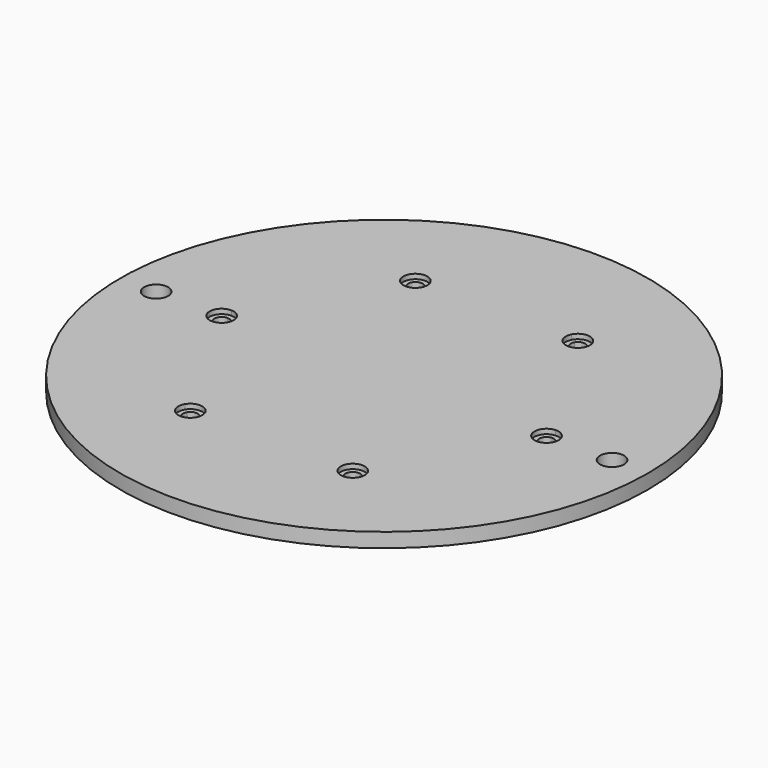
from build123d import *

# Parameters (mm, degrees)
F0_R     = 55
F0_R_2   = 2.5
F0_R_3   = 40
F1_DEPTH = 3
F2_DEPTH = 2


with BuildPart() as f1:
    # F0 (on Top) → F1 (new body)
    with BuildSketch(Plane.XY):
        Circle(F0_R)
        with Locations((-47.5, 0)):
            Circle(F0_R_2, mode=Mode.SUBTRACT)
        Circle(F0_R_3, mode=Mode.SUBTRACT)
        with BuildLine():
            ThreePointArc((50, 0), (47.5, -2.5), (45, 0))
            ThreePointArc((45, 0), (47.5, 2.5), (50, 0))
        make_face(mode=Mode.SUBTRACT)
        Circle(F0_R_3)
        with BuildLine():
            ThreePointArc((19.0424272849, 27.9858618431), (29.3149599181, 16.925), (33.7576809453, 2.4982948569))
            ThreePointArc((33.7576809453, 2.4982948569), (35.584820216, 1.8001107795), (36.35, 0))
            ThreePointArc((36.35, 0), (35.584820216, -1.8001107795), (33.7576809453, -2.4982948569))
            ThreePointArc((33.7576809453, -2.4982948569), (29.3149599181, -16.925), (19.0424272849, -27.9858618431))
            ThreePointArc((19.0424272849, -27.9858618431), (19.3274537677, -28.6234283614), (19.425, -29.3149599181))
            ThreePointArc((19.425, -29.3149599181), (17.5273429883, -31.7413116907), (14.7152536604, -30.4841567))
            ThreePointArc((14.7152536604, -30.4841567), (0, -33.85), (-14.7152536604, -30.4841567))
            ThreePointArc((-14.7152536604, -30.4841567), (-18.175, -31.4800234276), (-19.0424272849, -27.9858618431))
            ThreePointArc((-19.0424272849, -27.9858618431), (-29.3149599181, -16.925), (-33.7576809453, -2.4982948569))
            ThreePointArc((-33.7576809453, -2.4982948569), (-36.35, 0), (-33.7576809453, 2.4982948569))
            ThreePointArc((-33.7576809453, 2.4982948569), (-29.3149599181, 16.925), (-19.0424272849, 27.9858618431))
            ThreePointArc((-19.0424272849, 27.9858618431), (-18.175, 31.4800234276), (-14.7152536604, 30.4841567))
            ThreePointArc((-14.7152536604, 30.4841567), (0, 33.85), (14.7152536604, 30.4841567))
            ThreePointArc((14.7152536604, 30.4841567), (17.5273429883, 31.7413116907), (19.425, 29.3149599181))
            ThreePointArc((19.425, 29.3149599181), (19.3274537677, 28.6234283614), (19.0424272849, 27.9858618431))
        make_face(mode=Mode.SUBTRACT)
        with BuildLine():
            ThreePointArc((33.7576809453, -2.4982948569), (31.35, 0), (33.7576809453, 2.4982948569))
            ThreePointArc((33.7576809453, 2.4982948569), (29.3149599181, 16.925), (19.0424272849, 27.9858618431))
            ThreePointArc((19.0424272849, 27.9858618431), (15.675, 27.1498964086), (14.7152536604, 30.4841567))
            ThreePointArc((14.7152536604, 30.4841567), (0, 33.85), (-14.7152536604, 30.4841567))
            ThreePointArc((-14.7152536604, 30.4841567), (-14.4986482274, 29.9173029064), (-14.425, 29.3149599181))
            ThreePointArc((-14.425, 29.3149599181), (-16.2334684433, 26.9125061504), (-19.0424272849, 27.9858618431))
            ThreePointArc((-19.0424272849, 27.9858618431), (-29.3149599181, 16.925), (-33.7576809453, 2.4982948569))
            ThreePointArc((-33.7576809453, 2.4982948569), (-32.0498892205, 1.734820216), (-31.35, 0))
            ThreePointArc((-31.35, 0), (-32.0498892205, -1.734820216), (-33.7576809453, -2.4982948569))
            ThreePointArc((-33.7576809453, -2.4982948569), (-29.3149599181, -16.925), (-19.0424272849, -27.9858618431))
            ThreePointArc((-19.0424272849, -27.9858618431), (-16.2334684433, -26.9125061504), (-14.425, -29.3149599181))
            ThreePointArc((-14.425, -29.3149599181), (-14.4986482274, -29.9173029064), (-14.7152536604, -30.4841567))
            ThreePointArc((-14.7152536604, -30.4841567), (0, -33.85), (14.7152536604, -30.4841567))
            ThreePointArc((14.7152536604, -30.4841567), (15.675, -27.1498964086), (19.0424272849, -27.9858618431))
            ThreePointArc((19.0424272849, -27.9858618431), (29.3149599181, -16.925), (33.7576809453, -2.4982948569))
        make_face()
    extrude(amount=F1_DEPTH)

    # F0 (on Top) → F2 (join)
    with BuildSketch(Plane.XY):
        with BuildLine():
            ThreePointArc((-14.425, 29.3149599181), (-14.4986482274, 29.9173029064), (-14.7152536604, 30.4841567))
            ThreePointArc((-14.7152536604, 30.4841567), (-15.1641142387, 30.2633795098), (-15.6096633615, 30.0359935701))
            ThreePointArc((-15.6096633615, 30.0359935701), (-15.4718990128, 29.6871124689), (-15.425, 29.3149599181))
            ThreePointArc((-15.425, 29.3149599181), (-16.5207430695, 27.8704612735), (-18.2071017789, 28.5363618006))
            ThreePointArc((-18.2071017789, 28.5363618006), (-18.6267983405, 28.2641979115), (-19.0424272849, 27.9858618431))
            ThreePointArc((-19.0424272849, 27.9858618431), (-16.2334684433, 26.9125061504), (-14.425, 29.3149599181))
        make_face()
        with BuildLine():
            ThreePointArc((-15.6096633615, 30.0359935701), (-15.1641142387, 30.2633795098), (-14.7152536604, 30.4841567))
            ThreePointArc((-14.7152536604, 30.4841567), (-18.175, 31.4800234276), (-19.0424272849, 27.9858618431))
            ThreePointArc((-19.0424272849, 27.9858618431), (-18.6267983405, 28.2641979115), (-18.2071017789, 28.5363618006))
            ThreePointArc((-18.2071017789, 28.5363618006), (-17.675, 30.6139980238), (-15.6096633615, 30.0359935701))
        make_face()
        with BuildLine():
            ThreePointArc((-31.35, 0), (-32.0498892205, 1.734820216), (-33.7576809453, 2.4982948569))
            ThreePointArc((-33.7576809453, 2.4982948569), (-33.7909125792, 1.9991815983), (-33.8167651403, 1.4996317695))
            ThreePointArc((-33.8167651403, 1.4996317695), (-32.7776539063, 1.0488440567), (-32.35, 0))
            ThreePointArc((-32.35, 0), (-32.7776539063, -1.0488440567), (-33.8167651403, -1.4996317695))
            ThreePointArc((-33.8167651403, -1.4996317695), (-33.7909125792, -1.9991815983), (-33.7576809453, -2.4982948569))
            ThreePointArc((-33.7576809453, -2.4982948569), (-32.0498892205, -1.734820216), (-31.35, 0))
        make_face()
        with BuildLine():
            ThreePointArc((-33.8167651403, 1.4996317695), (-33.7909125792, 1.9991815983), (-33.7576809453, 2.4982948569))
            ThreePointArc((-33.7576809453, 2.4982948569), (-36.35, 0), (-33.7576809453, -2.4982948569))
            ThreePointArc((-33.7576809453, -2.4982948569), (-33.7909125792, -1.9991815983), (-33.8167651403, -1.4996317695))
            ThreePointArc((-33.8167651403, -1.4996317695), (-35.35, 0), (-33.8167651403, 1.4996317695))
        make_face()
        with BuildLine():
            ThreePointArc((-15.6096633615, -30.0359935701), (-15.1641142387, -30.2633795098), (-14.7152536604, -30.4841567))
            ThreePointArc((-14.7152536604, -30.4841567), (-14.4986482274, -29.9173029064), (-14.425, -29.3149599181))
            ThreePointArc((-14.425, -29.3149599181), (-16.2334684433, -26.9125061504), (-19.0424272849, -27.9858618431))
            ThreePointArc((-19.0424272849, -27.9858618431), (-18.6267983405, -28.2641979115), (-18.2071017789, -28.5363618006))
            ThreePointArc((-18.2071017789, -28.5363618006), (-16.5207430695, -27.8704612735), (-15.425, -29.3149599181))
            ThreePointArc((-15.425, -29.3149599181), (-15.4718990128, -29.6871124689), (-15.6096633615, -30.0359935701))
        make_face()
        with BuildLine():
            ThreePointArc((-19.0424272849, -27.9858618431), (-18.175, -31.4800234276), (-14.7152536604, -30.4841567))
            ThreePointArc((-14.7152536604, -30.4841567), (-15.1641142387, -30.2633795098), (-15.6096633615, -30.0359935701))
            ThreePointArc((-15.6096633615, -30.0359935701), (-17.675, -30.6139980238), (-18.2071017789, -28.5363618006))
            ThreePointArc((-18.2071017789, -28.5363618006), (-18.6267983405, -28.2641979115), (-19.0424272849, -27.9858618431))
        make_face()
        with BuildLine():
            ThreePointArc((18.2071017789, -28.5363618006), (18.6267983405, -28.2641979115), (19.0424272849, -27.9858618431))
            ThreePointArc((19.0424272849, -27.9858618431), (15.675, -27.1498964086), (14.7152536604, -30.4841567))
            ThreePointArc((14.7152536604, -30.4841567), (15.1641142387, -30.2633795098), (15.6096633615, -30.0359935701))
            ThreePointArc((15.6096633615, -30.0359935701), (16.175, -28.0159218124), (18.2071017789, -28.5363618006))
        make_face()
        with BuildLine():
            ThreePointArc((19.425, -29.3149599181), (19.3274537677, -28.6234283614), (19.0424272849, -27.9858618431))
            ThreePointArc((19.0424272849, -27.9858618431), (18.6267983405, -28.2641979115), (18.2071017789, -28.5363618006))
            ThreePointArc((18.2071017789, -28.5363618006), (18.3694986446, -28.9107029876), (18.425, -29.3149599181))
            ThreePointArc((18.425, -29.3149599181), (17.2971525508, -30.7680609053), (15.6096633615, -30.0359935701))
            ThreePointArc((15.6096633615, -30.0359935701), (15.1641142387, -30.2633795098), (14.7152536604, -30.4841567))
            ThreePointArc((14.7152536604, -30.4841567), (17.5273429883, -31.7413116907), (19.425, -29.3149599181))
        make_face()
        with BuildLine():
            ThreePointArc((33.7576809453, 2.4982948569), (33.7909125792, 1.9991815983), (33.8167651403, 1.4996317695))
            ThreePointArc((33.8167651403, 1.4996317695), (34.8988440567, 1.0723460937), (35.35, 0))
            ThreePointArc((35.35, 0), (34.8988440567, -1.0723460937), (33.8167651403, -1.4996317695))
            ThreePointArc((33.8167651403, -1.4996317695), (33.7909125792, -1.9991815983), (33.7576809453, -2.4982948569))
            ThreePointArc((33.7576809453, -2.4982948569), (35.584820216, -1.8001107795), (36.35, 0))
            ThreePointArc((36.35, 0), (35.584820216, 1.8001107795), (33.7576809453, 2.4982948569))
        make_face()
        with BuildLine():
            ThreePointArc((33.8167651403, -1.4996317695), (32.35, 0), (33.8167651403, 1.4996317695))
            ThreePointArc((33.8167651403, 1.4996317695), (33.7909125792, 1.9991815983), (33.7576809453, 2.4982948569))
            ThreePointArc((33.7576809453, 2.4982948569), (31.35, 0), (33.7576809453, -2.4982948569))
            ThreePointArc((33.7576809453, -2.4982948569), (33.7909125792, -1.9991815983), (33.8167651403, -1.4996317695))
        make_face()
        with BuildLine():
            ThreePointArc((18.2071017789, 28.5363618006), (18.6267983405, 28.2641979115), (19.0424272849, 27.9858618431))
            ThreePointArc((19.0424272849, 27.9858618431), (19.3274537677, 28.6234283614), (19.425, 29.3149599181))
            ThreePointArc((19.425, 29.3149599181), (17.5273429883, 31.7413116907), (14.7152536604, 30.4841567))
            ThreePointArc((14.7152536604, 30.4841567), (15.1641142387, 30.2633795098), (15.6096633615, 30.0359935701))
            ThreePointArc((15.6096633615, 30.0359935701), (17.2971525508, 30.7680609053), (18.425, 29.3149599181))
            ThreePointArc((18.425, 29.3149599181), (18.3694986446, 28.9107029876), (18.2071017789, 28.5363618006))
        make_face()
        with BuildLine():
            ThreePointArc((14.7152536604, 30.4841567), (15.675, 27.1498964086), (19.0424272849, 27.9858618431))
            ThreePointArc((19.0424272849, 27.9858618431), (18.6267983405, 28.2641979115), (18.2071017789, 28.5363618006))
            ThreePointArc((18.2071017789, 28.5363618006), (16.175, 28.0159218124), (15.6096633615, 30.0359935701))
            ThreePointArc((15.6096633615, 30.0359935701), (15.1641142387, 30.2633795098), (14.7152536604, 30.4841567))
        make_face()
    extrude(amount=F2_DEPTH)


solid = f1.part
